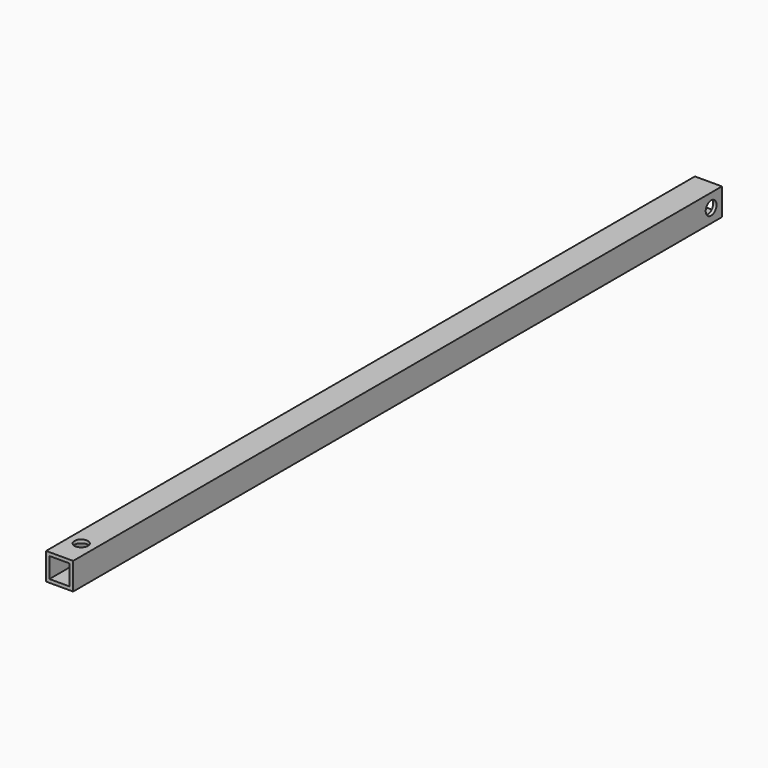
from build123d import *

# Parameters (mm, degrees)
F0_W     = 25.4
F0_H     = 25.4
F0_W_2   = 19.05
F0_H_2   = 19.05
F1_DEPTH = 762
F3_D     = 12.7
F5_D     = 12.7


with BuildPart() as f1:
    # F0 (on Front) → F1 (new body)
    with BuildSketch(Plane.XZ):
        with Locations((-9.525, 9.525)):
            Rectangle(F0_W, F0_H)
        with Locations((-9.525, 9.525)):
            Rectangle(F0_W_2, F0_H_2, mode=Mode.SUBTRACT)
    extrude(amount=F1_DEPTH)

    # F3 (through all)
    with Locations(Plane.XY.offset(22.225)):
        with Locations((-9.525, -736.6)):
            Hole(F3_D / 2)

    # F5 (through all)
    with Locations(Plane.YZ.offset(3.175)):
        with Locations((-12.7, 9.525)):
            Hole(F5_D / 2)


solid = f1.part
